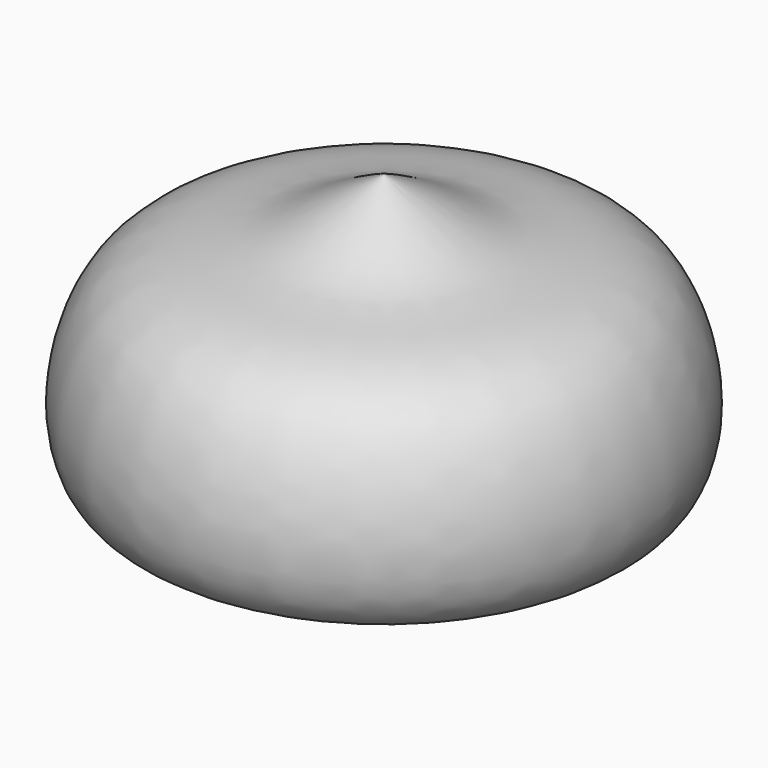
from build123d import *


with BuildPart() as f1:
    # F0 (on Front) → F1 (revolve)
    with BuildSketch(Plane.XZ):
        with BuildLine():
            Line((41.4683297276, 0), (50.8, 0))
            add(Edge.make_bspline(
                [(50.8, 0), (44.3890215533, 5.5657617108), (28.8701391454, 22.7627891728), (114.5482431328, -3.1160252283), (103.0850884432, 101.9986208288), (39.5011505292, 100.8844225433), (23.5132527899, 115.8716596516), (0, 127)],
                knots=[0, 0, 0, 0, 0.1205993273, 0.3345279846, 0.5793253492, 0.7887085086, 1, 1, 1, 1], degree=3))
            Line((0, 127), (0, 119.8279485106))
            add(Edge.make_bspline(
                [(41.4683297276, 0), (35.1513460688, 7.2198000091), (21.0479608537, 32.8984284761), (109.6433362338, 0.9794571982), (94.0365127914, 100.8126837272), (40.6625713553, 93.4672332435), (18.8732426614, 111.1070439219), (0, 119.8279485106)],
                knots=[0, 0, 0, 0, 0.1386101819, 0.3597062101, 0.5947255628, 0.7902533226, 1, 1, 1, 1], degree=3))
        make_face()
    revolve(axis=Axis((0, 0, 123.4139742553), (0, 0, 1)))


solid = f1.part
